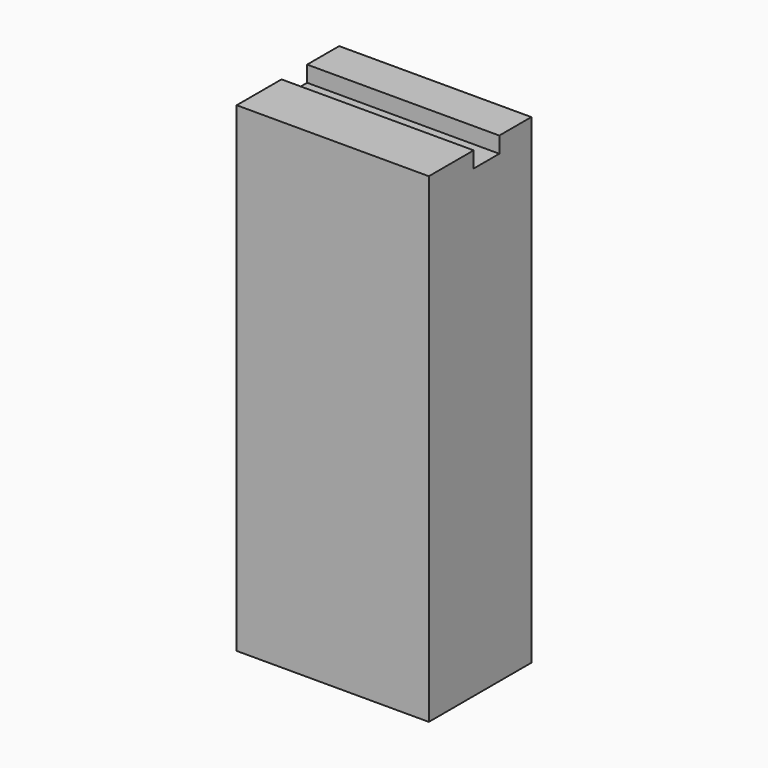
from build123d import *

# Parameters (mm, degrees)
F0_R     = 2.5
F1_DEPTH = 95.25
F2_W     = 6.35
F2_H     = 3.175
F3_DEPTH = 38.101
F4_D     = 4.2
F4_DEPTH = 20
F4_TIP   = 1.2618073


with BuildPart() as f1:
    # F0 (on Top) → F1 (new body)
    with BuildSketch(Plane.XY):
        Polygon((0, 0), (19.05, 0), (38.1, 0), (38.1, 25.4), (19.05, 25.4), (0, 25.4), align=None)
        with Locations((9.525, 12.7)):
            Circle(F0_R, mode=Mode.SUBTRACT)
        with Locations((28.575, 12.7)):
            Circle(F0_R, mode=Mode.SUBTRACT)
        Polygon((0, 0), (19.05, 0), (38.1, 0), (38.1, 25.4), (19.05, 25.4), (0, 25.4), align=None)
        with Locations((9.525, 12.7)):
            Circle(F0_R, mode=Mode.SUBTRACT)
        with Locations((28.575, 12.7)):
            Circle(F0_R, mode=Mode.SUBTRACT)
        with Locations((9.525, 12.7)):
            Circle(F0_R)
        with Locations((28.575, 12.7)):
            Circle(F0_R)
    extrude(amount=F1_DEPTH)

    # F2 (on face) → F3 (cut, through all)
    with BuildSketch(Plane.YZ.offset(38.1)):
        with Locations((14.2875, 93.6625)):
            Rectangle(F2_W, F2_H)
    extrude(amount=-F3_DEPTH, mode=Mode.SUBTRACT)

    # F4
    with Locations(Plane(origin=(0, 0, 0), x_dir=(1, 0, 0), z_dir=(0, 0, -1))):
        with Locations((9.525, -12.7), (28.575, -12.7)):
            Hole(F4_D / 2, depth=F4_DEPTH)
            with Locations((0, 0, -(F4_DEPTH + F4_TIP / 2))):  # 118° drill point
                Cone(0, F4_D / 2, F4_TIP, mode=Mode.SUBTRACT)


solid = f1.part
